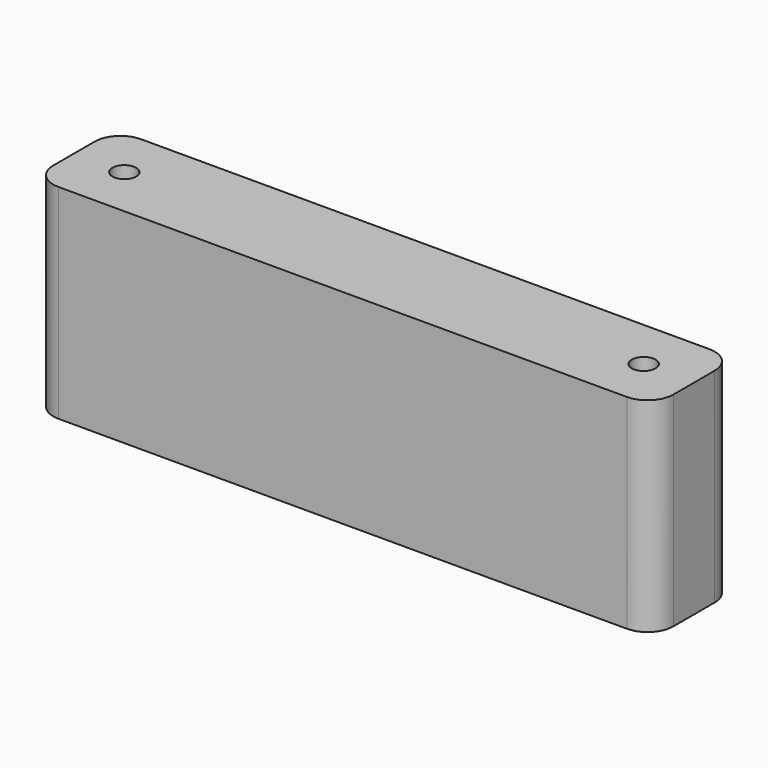
from build123d import *

# Parameters (mm, degrees)
CYLINDER_R        = 2.3
CYLINDER_DEPTH    = 50
CYLINDER001_R     = 2.3
CYLINDER001_DEPTH = 50
BOX_W             = 120
BOX_H             = 20
BOX_DEPTH         = 39.5
FILLET_R          = 5
CHAMFER_SIZE      = 0.5


with BuildPart() as cylinder:
    # Cylinder → Cylinder (new body)
    with BuildSketch(Plane(origin=(9.75, 10, -1), x_dir=(1, 0, 0), z_dir=(0, 0, 1))):
        Circle(CYLINDER_R)
    extrude(amount=CYLINDER_DEPTH)


with BuildPart() as fusion:
    # Cylinder001 → Cylinder001 (new body)
    with BuildSketch(Plane(origin=(110.25, 10, -1), x_dir=(1, 0, 0), z_dir=(0, 0, 1))):
        Circle(CYLINDER001_R)
    extrude(amount=CYLINDER001_DEPTH)

    # Fusion: union Cylinder
    add(cylinder.part)


with BuildPart() as chamfer_body:
    # Box → Box (new body)
    with BuildSketch(Plane.XY):
        with Locations((60, 10)):
            Rectangle(BOX_W, BOX_H)
    extrude(amount=BOX_DEPTH)

    # Cut: cut Fusion
    add(fusion.part, mode=Mode.SUBTRACT)

    # Fillet
    fillet_edges = [chamfer_body.edges().sort_by_distance(p)[0] for p in [
        (0, 0, 19.75),
        (0, 20, 19.75),
        (120, 0, 19.75),
        (120, 20, 19.75),
    ]]
    fillet(fillet_edges, radius=FILLET_R)

    # Chamfer
    chamfer_edges = [chamfer_body.edges().sort_by_distance(p)[0] for p in [
        (107.95, 10, 0),
        (7.45, 10, 0),
    ]]
    chamfer(chamfer_edges, length=CHAMFER_SIZE)


solid = chamfer_body.part
